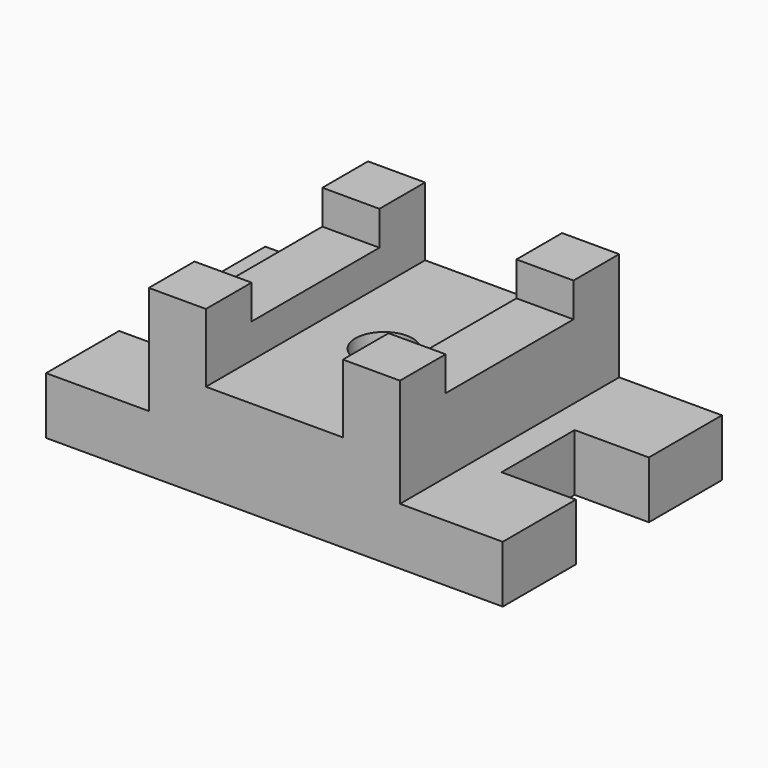
from build123d import *

# Parameters (mm, degrees)
F1_DEPTH  = 31.75
F2_W      = 139.7
F2_H      = 152.4
F3_DEPTH  = 22.225
F4_W      = 31.75
F4_H      = 152.4
F5_DEPTH  = 19.05
F6_W      = 31.75
F6_H      = 31.75
F7_DEPTH  = 19.05
F8_W      = 31.75
F8_H      = 31.75
F9_DEPTH  = 19.05
F11_DEPTH = 53.976


with BuildPart() as f1:
    # F0 (on Top) → F1 (new body)
    with BuildSketch(Plane.XY):
        Polygon((239.708930706, 73.0919511884), (-14.291069294, 73.0919511884), (-14.291069294, 22.2919511884), (26.983930706, 22.2919511884), (26.983930706, -28.5080488116), (-14.291069294, -28.5080488116), (-14.291069294, -79.3080488116), (239.708930706, -79.3080488116), (239.708930706, -28.5080488116), (198.433930706, -28.5080488116), (198.433930706, 22.2919511884), (239.708930706, 22.2919511884), align=None)
    extrude(amount=F1_DEPTH)

    # F2 (on face) → F3 (join)
    with BuildSketch(Plane.XY.offset(31.75)):
        with Locations((112.708930706, -3.1080488116)):
            Rectangle(F2_W, F2_H)
    extrude(amount=F3_DEPTH)

    # F4 (on face) → F5 (join)
    with BuildSketch(Plane.XY.offset(53.975)):
        with Locations((58.733930706, -3.1080488116)):
            Rectangle(F4_W, F4_H)
        with Locations((166.683930706, -3.1080488116)):
            Rectangle(F4_W, F4_H)
    extrude(amount=F5_DEPTH)

    # F6 (on face) → F7 (join)
    with BuildSketch(Plane.XY.offset(73.025)):
        with Locations((58.733930706, 57.2169511884)):
            Rectangle(F6_W, F6_H)
        with Locations((58.733930706, -63.4330488116)):
            Rectangle(F6_W, F6_H)
    extrude(amount=F7_DEPTH)

    # F8 (on face) → F9 (join)
    with BuildSketch(Plane.XY.offset(73.025)):
        with Locations((166.683930706, 57.2169511884)):
            Rectangle(F8_W, F8_H)
        with Locations((166.683930706, -63.4330488116)):
            Rectangle(F8_W, F8_H)
    extrude(amount=F9_DEPTH)

    # F10 (on face) → F11 (cut, through all)
    with BuildSketch(Plane.XY.offset(53.975)):
        with BuildLine():
            ThreePointArc((128.583930706, -3.1080488116), (101.4836105546, 8.1172713398), (112.708930706, -18.9830488116))
            ThreePointArc((112.708930706, -18.9830488116), (123.9342508573, -14.3333689629), (128.583930706, -3.1080488116))
        make_face()
    extrude(amount=-F11_DEPTH, mode=Mode.SUBTRACT)


solid = f1.part
